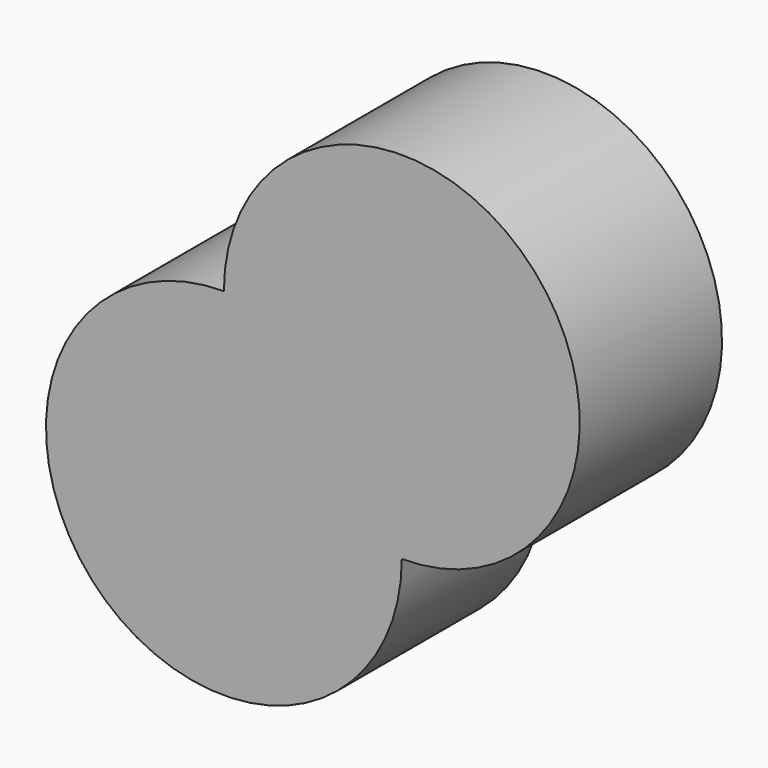
from build123d import *

# Parameters (mm, degrees)
F1_DEPTH = 25.4


with BuildPart() as f1:
    # F0 (on Front) → F1 (new body)
    with BuildSketch(Plane.XZ):
        with BuildLine():
            Line((25.4, 0), (0, 25.4))
            ThreePointArc((0, 25.4), (-17.960512, -17.960512), (25.4, 0))
        make_face()
    extrude(amount=F1_DEPTH)

    # F2: F1 across face


with BuildPart() as f1_1:
    add(f1.part)
    add(f1.part.mirror(Plane(origin=(12.7, -12.7, 12.7), x_dir=(0, 1, 0), z_dir=(0.707107, 0, 0.707107))))


solid = f1_1.part
